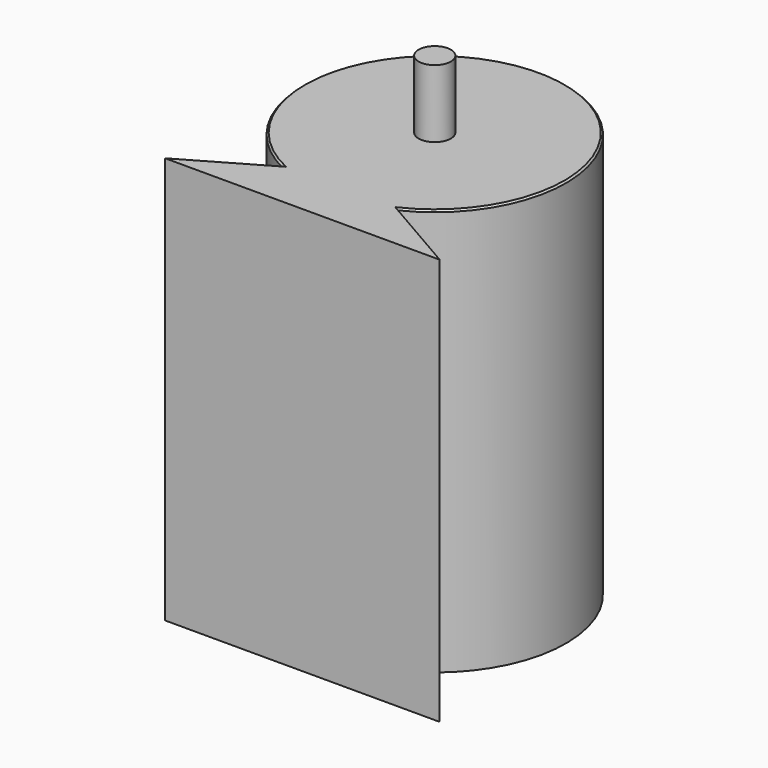
from build123d import *

# Parameters (mm, degrees)
PAD_DEPTH    = 240
SKETCH001_R  = 9.5
PAD001_DEPTH = 40
CHAMFER_SIZE = 1


with BuildPart() as part:
    # Sketch → Pad (new body)
    with BuildSketch(Plane.XY):
        with BuildLine():
            ThreePointArc((33.260337, -70), (0, 77.5), (-33.260337, -70))
            Line((-81, -97.562507), (-33.260337, -70))
            Line((-81, -97.562507), (81, -97.562507))
            Line((33.260337, -70), (81, -97.562507))
        make_face()
    extrude(amount=PAD_DEPTH)

    # Sketch001 (on Face6 of Pad) → Pad001 (join)
    with BuildSketch(Plane.XY.offset(240)):
        Circle(SKETCH001_R)
    extrude(amount=PAD001_DEPTH)

    # Chamfer
    chamfer_edges = [part.edges().sort_by_distance(p)[0] for p in [
        (0, 77.5, 240),
    ]]
    chamfer(chamfer_edges, length=CHAMFER_SIZE)


solid = part.part
